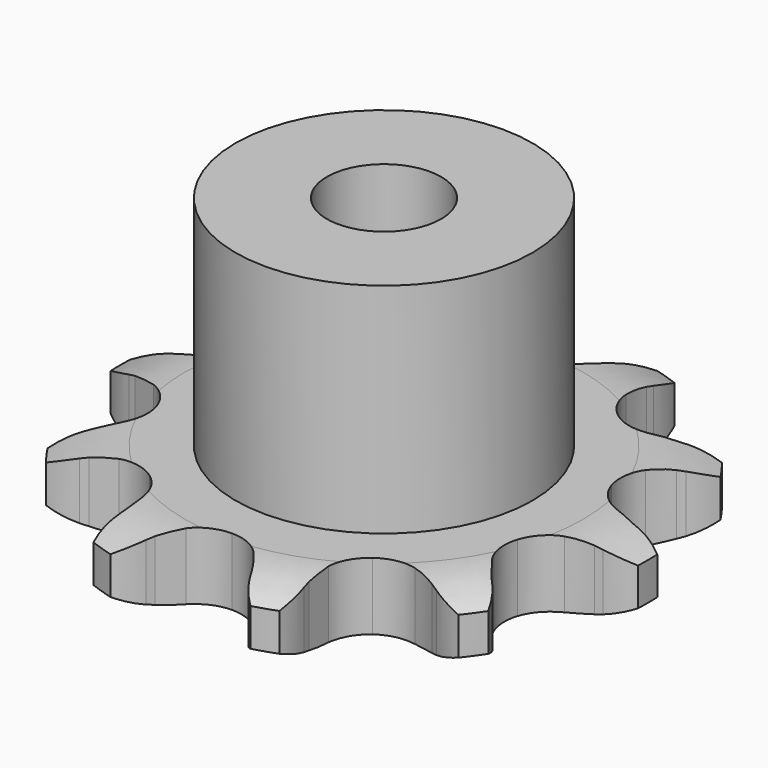
from build123d import *

# Parameters (mm, degrees)
PAD_DEPTH         = 5.9
SKETCH001_R       = 13
PAD001_DEPTH      = 25
SKETCH002_R       = 5
POCKET_DEPTH      = 0.001
POCKET_DEPTH_BACK = -25.001


with BuildPart() as part:
    # Sprocket → Pad (new body)
    with BuildSketch(Plane.XY):
        with BuildLine():
            ThreePointArc((-7.525974, 23.162566), (-5.805769, 21.995095), (-4.535038, 20.349696))
            Line((-4.535038, 20.349696), (-4.216941, 19.766264))
            ThreePointArc((-4.216941, 19.766264), (-3.641074, 18.833857), (-2.967877, 17.969096))
            ThreePointArc((-2.967877, 17.969096), (-1.630771, 16.970632), (0, 16.616557))
            ThreePointArc((0, 16.616557), (1.630771, 16.970632), (2.967877, 17.969096))
            ThreePointArc((2.967877, 17.969096), (3.641074, 18.833857), (4.216941, 19.766264))
            Line((4.216941, 19.766264), (4.535038, 20.349696))
            ThreePointArc((4.535038, 20.349696), (5.805769, 21.995095), (7.525974, 23.162566))
            ThreePointArc((7.525974, 23.162566), (8.231427, 21.206951), (8.292328, 19.128878))
            Line((8.292328, 19.128878), (8.206742, 18.4699))
            ThreePointArc((8.206742, 18.4699), (8.124572, 17.37708), (8.160907, 16.281778))
            ThreePointArc((8.160907, 16.281778), (8.655766, 14.688072), (9.766967, 13.443077))
            ThreePointArc((9.766967, 13.443077), (11.294408, 12.770986), (12.963032, 12.79283))
            Line((12.963032, 12.79283), (15.029896, 13.512588))
            ThreePointArc((15.029896, 13.512588), (15.327698, 13.660027), (15.630174, 13.797621))
            ThreePointArc((15.630174, 13.797621), (17.625358, 14.38186), (19.703255, 14.315253))
            ThreePointArc((19.703255, 14.315253), (19.124497, 12.318472), (17.952307, 10.601479))
            Line((17.952307, 10.601479), (17.495728, 10.118661))
            ThreePointArc((17.495728, 10.118661), (16.786908, 9.282849), (16.172501, 8.375374))
            ThreePointArc((16.172501, 8.375374), (15.636094, 6.795169), (15.803284, 5.134798))
            ThreePointArc((15.803284, 5.134798), (16.643966, 3.693258), (18.00675, 2.730138))
            Line((18.00675, 2.730138), (20.101941, 2.097562))
            ThreePointArc((20.101941, 2.097562), (20.42953, 2.041799), (20.755114, 1.975324))
            ThreePointArc((20.755114, 1.975324), (22.712659, 1.275244), (24.354563, 0))
            ThreePointArc((24.354563, 0), (22.712659, -1.275244), (20.755114, -1.975324))
            Line((20.755114, -1.975324), (20.101941, -2.097562))
            ThreePointArc((20.101941, -2.097562), (19.037216, -2.357114), (18.00675, -2.730138))
            ThreePointArc((18.00675, -2.730138), (16.643966, -3.693258), (15.803284, -5.134798))
            ThreePointArc((15.803284, -5.134798), (15.636094, -6.795169), (16.172501, -8.375374))
            Line((16.172501, -8.375374), (17.495728, -10.118661))
            ThreePointArc((17.495728, -10.118661), (17.727976, -10.356326), (17.952307, -10.601479))
            ThreePointArc((17.952307, -10.601479), (19.124497, -12.318472), (19.703255, -14.315253))
            ThreePointArc((19.703255, -14.315253), (17.625358, -14.38186), (15.630174, -13.797621))
            Line((15.630174, -13.797621), (15.029896, -13.512588))
            ThreePointArc((15.029896, -13.512588), (14.015954, -13.09674), (12.963032, -12.79283))
            ThreePointArc((12.963032, -12.79283), (11.294408, -12.770986), (9.766967, -13.443077))
            ThreePointArc((9.766967, -13.443077), (8.655766, -14.688072), (8.160907, -16.281778))
            Line((8.160907, -16.281778), (8.206742, -18.4699))
            ThreePointArc((8.206742, -18.4699), (8.254938, -18.798687), (8.292328, -19.128878))
            ThreePointArc((8.292328, -19.128878), (8.231427, -21.206951), (7.525974, -23.162566))
            ThreePointArc((7.525974, -23.162566), (5.805769, -21.995095), (4.535038, -20.349696))
            Line((4.535038, -20.349696), (4.216941, -19.766264))
            ThreePointArc((4.216941, -19.766264), (3.641074, -18.833857), (2.967877, -17.969096))
            ThreePointArc((2.967877, -17.969096), (1.630771, -16.970632), (0, -16.616557))
            ThreePointArc((0, -16.616557), (-1.630771, -16.970632), (-2.967877, -17.969096))
            Line((-2.967877, -17.969096), (-4.216941, -19.766264))
            ThreePointArc((-4.216941, -19.766264), (-4.371206, -20.060588), (-4.535038, -20.349696))
            ThreePointArc((-4.535038, -20.349696), (-5.805769, -21.995095), (-7.525974, -23.162566))
            ThreePointArc((-7.525974, -23.162566), (-8.231427, -21.206951), (-8.292328, -19.128878))
            Line((-8.292328, -19.128878), (-8.206742, -18.4699))
            ThreePointArc((-8.206742, -18.4699), (-8.124572, -17.37708), (-8.160907, -16.281778))
            ThreePointArc((-8.160907, -16.281778), (-8.655766, -14.688072), (-9.766967, -13.443077))
            ThreePointArc((-9.766967, -13.443077), (-11.294408, -12.770986), (-12.963032, -12.79283))
            Line((-12.963032, -12.79283), (-15.029896, -13.512588))
            ThreePointArc((-15.029896, -13.512588), (-15.327698, -13.660027), (-15.630174, -13.797621))
            ThreePointArc((-15.630174, -13.797621), (-17.625358, -14.38186), (-19.703255, -14.315253))
            ThreePointArc((-19.703255, -14.315253), (-19.124497, -12.318472), (-17.952307, -10.601479))
            Line((-17.952307, -10.601479), (-17.495728, -10.118661))
            ThreePointArc((-17.495728, -10.118661), (-16.786908, -9.282849), (-16.172501, -8.375374))
            ThreePointArc((-16.172501, -8.375374), (-15.636094, -6.795169), (-15.803284, -5.134798))
            ThreePointArc((-15.803284, -5.134798), (-16.643966, -3.693258), (-18.00675, -2.730138))
            Line((-18.00675, -2.730138), (-20.101941, -2.097562))
            ThreePointArc((-20.101941, -2.097562), (-20.42953, -2.041799), (-20.755114, -1.975324))
            ThreePointArc((-20.755114, -1.975324), (-22.712659, -1.275244), (-24.354563, 0))
            ThreePointArc((-24.354563, 0), (-22.712659, 1.275244), (-20.755114, 1.975324))
            Line((-20.755114, 1.975324), (-20.101941, 2.097562))
            ThreePointArc((-20.101941, 2.097562), (-19.037216, 2.357114), (-18.00675, 2.730138))
            ThreePointArc((-18.00675, 2.730138), (-16.643966, 3.693258), (-15.803284, 5.134798))
            ThreePointArc((-15.803284, 5.134798), (-15.636094, 6.795169), (-16.172501, 8.375374))
            Line((-16.172501, 8.375374), (-17.495728, 10.118661))
            ThreePointArc((-17.495728, 10.118661), (-17.727976, 10.356326), (-17.952307, 10.601479))
            ThreePointArc((-17.952307, 10.601479), (-19.124497, 12.318472), (-19.703255, 14.315253))
            ThreePointArc((-19.703255, 14.315253), (-17.625358, 14.38186), (-15.630174, 13.797621))
            Line((-15.630174, 13.797621), (-15.029896, 13.512588))
            ThreePointArc((-15.029896, 13.512588), (-14.015954, 13.09674), (-12.963032, 12.79283))
            ThreePointArc((-12.963032, 12.79283), (-11.294408, 12.770986), (-9.766967, 13.443077))
            ThreePointArc((-9.766967, 13.443077), (-8.655766, 14.688072), (-8.160907, 16.281778))
            Line((-8.160907, 16.281778), (-8.206742, 18.4699))
            ThreePointArc((-8.206742, 18.4699), (-8.254938, 18.798687), (-8.292328, 19.128878))
            ThreePointArc((-8.292328, 19.128878), (-8.231427, 21.206951), (-7.525974, 23.162566))
        make_face()
    extrude(amount=PAD_DEPTH)

    # Sketch → Groove (revolve, cut)
    with BuildSketch(Plane.XZ):
        with BuildLine():
            Line((17.433431, 0), (23.1, 0))
            Line((28.766569, 0), (23.1, 0))
            Line((28.766569, 5.9), (28.766569, 0))
            Line((23.1, 5.9), (28.766569, 5.9))
            Line((17.433431, 5.9), (23.1, 5.9))
            ThreePointArc((23.1, 4.6), (20.34032, 5.570833), (17.433431, 5.9))
            Line((23.1, 1.3), (23.1, 4.6))
            ThreePointArc((17.433431, 0), (20.34032, 0.329167), (23.1, 1.3))
        make_face()
    revolve(axis=Axis((0, 0, 0), (0, 0, 1)), mode=Mode.SUBTRACT)

    # Sketch001 → Pad001 (join)
    with BuildSketch(Plane.XY):
        Circle(SKETCH001_R)
    extrude(amount=PAD001_DEPTH)

    # Sketch002 → Pocket (cut, two sides)
    with BuildSketch(Plane.XY) as pocket_sk:
        Circle(SKETCH002_R)
    extrude(amount=-POCKET_DEPTH, mode=Mode.SUBTRACT)
    extrude(pocket_sk.sketch, amount=-POCKET_DEPTH_BACK, mode=Mode.SUBTRACT)


solid = part.part
